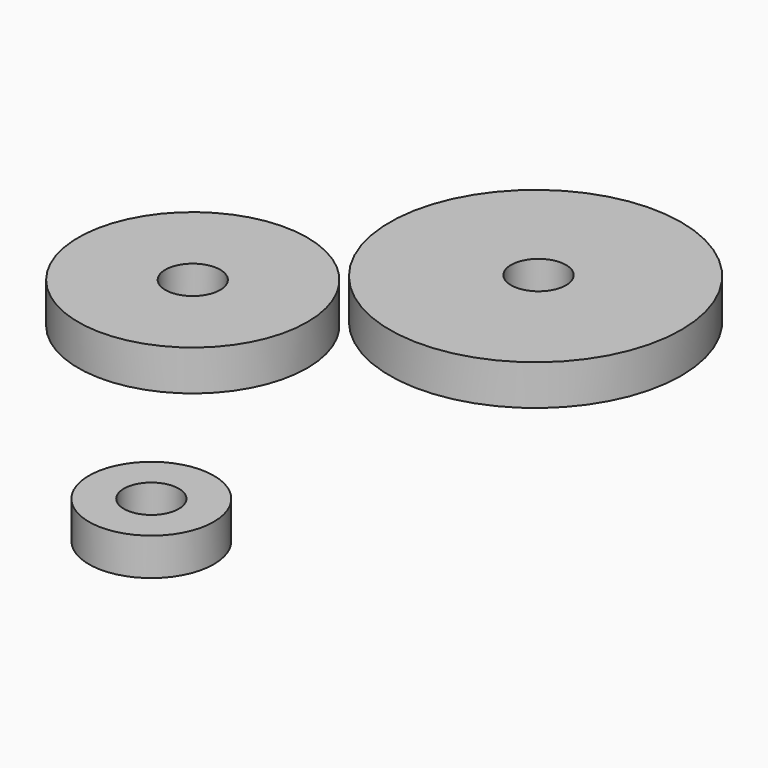
from build123d import *

# Parameters (mm, degrees)
F0_R     = 14
F1_DEPTH = 3.8715
F2_R     = 2.639664
F3_DEPTH = 25
F4_R     = 11
F4_R_2   = 2.635
F5_DEPTH = 3.88268
F6_R     = 6
F6_R_2   = 2.635
F7_DEPTH = 3.58938


with BuildPart() as f1:
    # F0 (on Top) → F1 (new body)
    with BuildSketch(Plane.XY):
        with Locations((-39.88827, 37.395254)):
            Circle(F0_R)
    extrude(amount=-F1_DEPTH)

    # F2 (on Top) → F3 (cut)
    with BuildSketch(Plane.XY):
        with Locations((-39.811349, 37.659839)):
            Circle(F2_R)
    extrude(amount=-F3_DEPTH, mode=Mode.SUBTRACT)


with BuildPart() as f5:
    # F4 (on Top) → F5 (new body)
    with BuildSketch(Plane.XY):
        with Locations((-54.919645, 15.035159)):
            Circle(F4_R)
        with Locations((-54.919645, 15.035159)):
            Circle(F4_R_2, mode=Mode.SUBTRACT)
    extrude(amount=F5_DEPTH)


with BuildPart() as f7:
    # F6 (on Top) → F7 (new body)
    with BuildSketch(Plane.XY):
        with Locations((-35.488829, -14.224861)):
            Circle(F6_R)
        with Locations((-35.488829, -14.224861)):
            Circle(F6_R_2, mode=Mode.SUBTRACT)
    extrude(amount=F7_DEPTH)


solid = Compound([f1.part, f5.part, f7.part])
